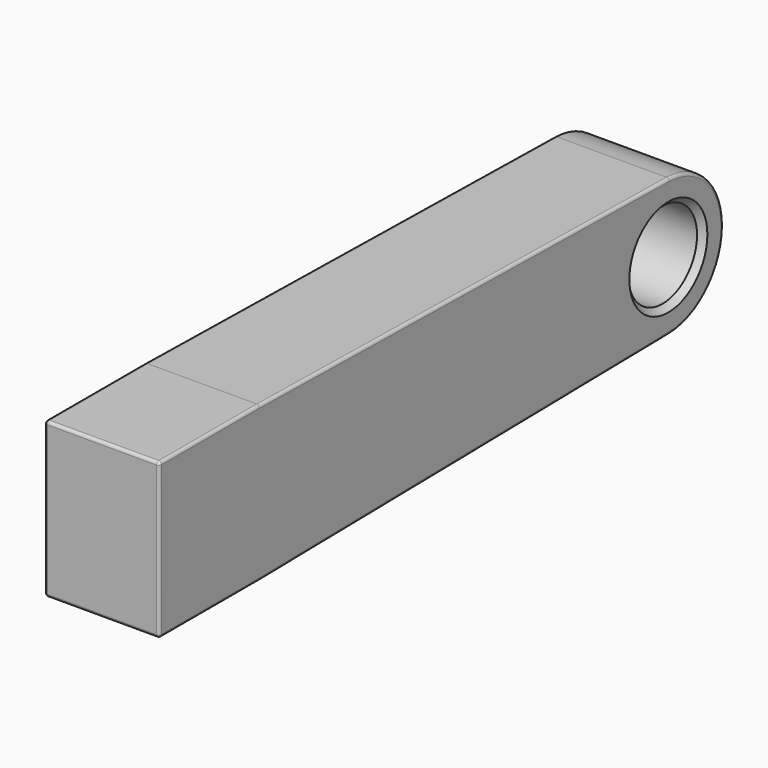
from build123d import *

# Parameters (mm, degrees)
F0_W     = 109.173186
F0_H     = 135
F0_R     = 37.5
F1_DEPTH = 100
F2_R     = 2.5
F3_SIZE  = 5


with BuildPart() as f1:
    # F0 (on Right) → F1 (new body)
    with BuildSketch(Plane.YZ):
        Rectangle(F0_W, F0_H)
        with BuildLine():
            Line((501.009012, 59.991515), (54.586593, 67.5))
            Line((54.586593, 67.5), (54.586593, -67.5))
            Line((54.586593, -67.5), (501.009012, -59.991515))
            ThreePointArc((501.009012, -59.991515), (440, 0), (501.009012, 59.991515))
        make_face()
        with BuildLine():
            ThreePointArc((560, 0), (542.781659, 42.068155), (501.009012, 59.991515))
            ThreePointArc((501.009012, 59.991515), (440, 0), (501.009012, -59.991515))
            ThreePointArc((501.009012, -59.991515), (542.781659, -42.068155), (560, 0))
        make_face()
        with Locations((500, 0)):
            Circle(F0_R, mode=Mode.SUBTRACT)
    extrude(amount=F1_DEPTH)

    # F2
    f2_edges = [f1.edges().sort_by_distance(p)[0] for p in [
        (100, 277.797802, 63.745758),
        (100, 277.797802, -63.745758),
        (100, 0, -67.5),
        (100, -54.586593, 0),
        (100, 0, 67.5),
        (100, 560, 0),
        (0, 277.797802, 63.745758),
        (0, 560, 0),
        (0, 277.797802, -63.745758),
        (0, 0, -67.5),
        (0, -54.586593, 0),
        (0, 0, 67.5),
        (50, -54.586593, -67.5),
        (50, -54.586593, 67.5),
    ]]
    fillet(f2_edges, radius=F2_R)

    # F3
    f3_edges = [f1.edges().sort_by_distance(p)[0] for p in [
        (100, 462.5, 0),
        (0, 462.5, 0),
    ]]
    chamfer(f3_edges, length=F3_SIZE)


solid = f1.part
